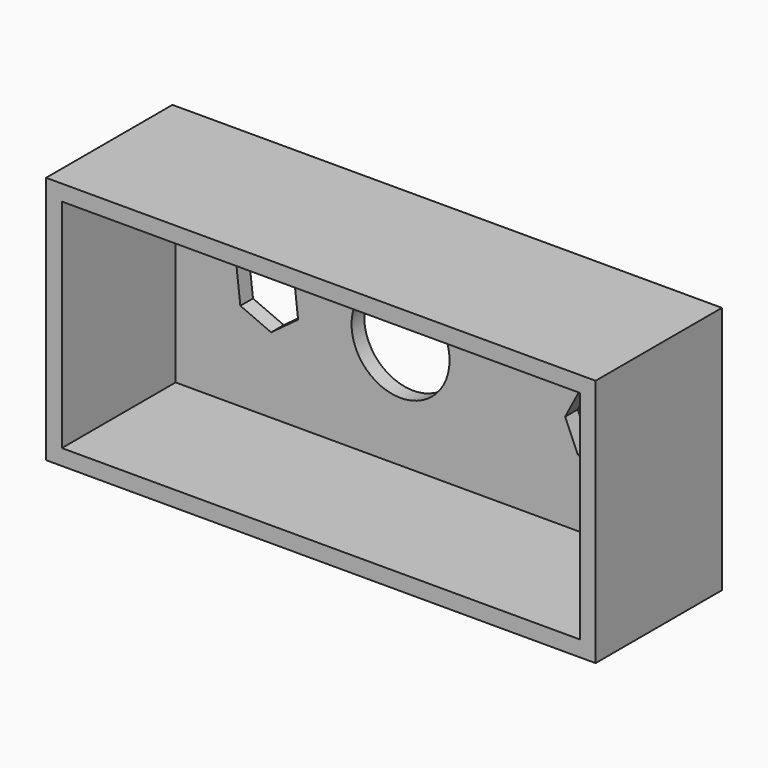
from build123d import *

# Parameters (mm, degrees)
F0_W     = 86.981553
F0_H     = 39.354872
F1_DEPTH = 25
F2_T     = -2.5
F3_R     = 7.757287
F4_DEPTH = 25
F6_DEPTH = 25


with BuildPart() as f1:
    # F0 (on Front) → F1 (new body)
    with BuildSketch(Plane.XZ):
        with Locations((-93.148147, -0.701256)):
            Rectangle(F0_W, F0_H)
    extrude(amount=F1_DEPTH)

    # F2
    f2_openings = [f1.faces().sort_by_distance(p)[0] for p in [
        (-93.148148, -25, -0.701256),
    ]]
    offset(amount=F2_T, openings=f2_openings)

    # F3 (on face) → F4 (cut)
    with BuildSketch(Plane.XZ.offset(2.5)):
        with Locations((-98.527715, -0.701256)):
            Circle(F3_R)
    extrude(amount=-F4_DEPTH, mode=Mode.SUBTRACT)

    # F5 (on face) → F6 (cut)
    with BuildSketch(Plane.XZ.offset(2.5)):
        Polygon((-119.016969, -5.981139), (-114.744506, -2.821497), (-115.344604, 2.458386), (-120.217166, 4.578626), (-124.489629, 1.418985), (-123.889531, -3.860898), align=None)
        Polygon((-65.501607, -8.603557), (-61.395115, -5.566656), (-61.209103, -0.462595), (-65.083642, 2.865165), (-70.101126, 1.910753), (-72.483286, -2.60714), (-70.436308, -7.286448), align=None)
    extrude(amount=-F6_DEPTH, mode=Mode.SUBTRACT)


solid = f1.part
